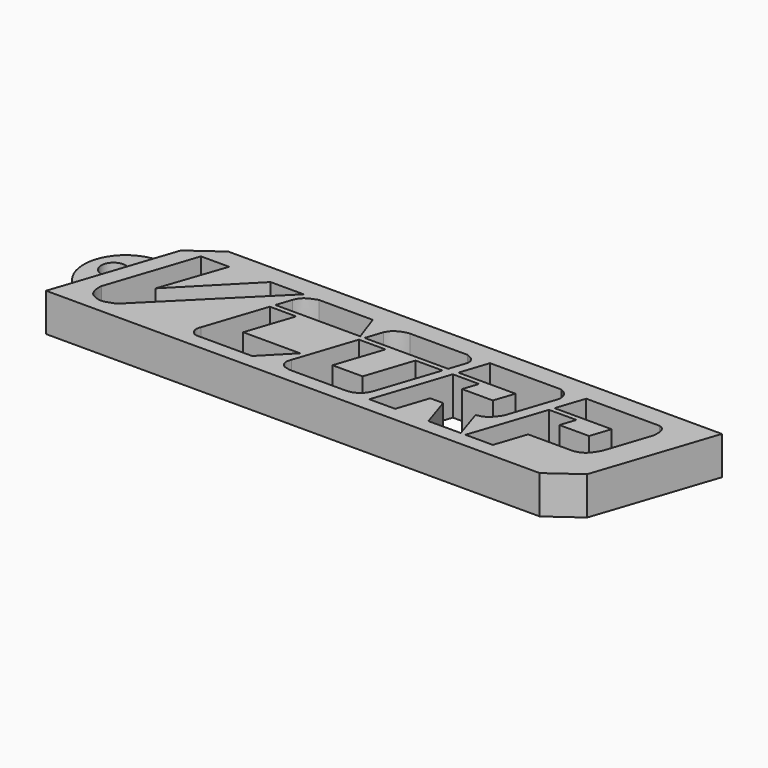
from build123d import *

# Parameters (mm, degrees)
F0_R     = 1.5875
F1_DEPTH = 3.5
F2_DEPTH = 5
F3_SIZE  = 3


with BuildPart() as f1:
    # F0 (on Top) → F1 (new body)
    with BuildSketch(Plane.XY):
        with BuildLine():
            Line((-31.4265900099, 5.0546218881), (-27.9518529079, 15.4913935188))
            ThreePointArc((-27.9518529079, 15.4913935188), (-34.9076072742, 12.0103762544), (-31.4265900099, 5.0546218881))
        make_face()
        with Locations((-32.070890069, 11.2492460757)):
            Circle(F0_R, mode=Mode.SUBTRACT)
    extrude(amount=F1_DEPTH)

    # F0 (on Top) → F2 (join)
    with BuildSketch(Plane.XY):
        Polygon((41.0324722573, 19.4832161069), (-26.6228467226, 19.4832161069), (-27.9518529079, 15.4913935188), (-31.4265900099, 5.0546218881), (-32.7555961951, 1.0627993), (34.8997227848, 1.0627993), align=None)
        with BuildLine():
            Line((-28.9777275175, 5.3988145664), (-25.1468084753, 16.9054195285))
            Line((-25.1468084753, 16.9054195285), (-21.4522741735, 16.9054195285))
            Line((-21.4522741735, 16.9054195285), (-24.3383795023, 8.4737306461))
            Line((-24.3383795023, 8.4737306461), (-16.0307120532, 16.9054195285))
            Line((-16.0307120532, 16.9054195285), (-11.6880685091, 16.9054195285))
            Line((-11.6880685091, 16.9054195285), (-24.5002172887, 4.1521633975))
            add(Edge.make_bspline(
                [(-28.9777275175, 5.3988145664), (-28.9920829502, 5.1753823662), (-29.0245338372, 4.6708365307), (-28.75422588, 3.5537688412), (-27.9998356891, 3.1048311498), (-27.0958013154, 2.7514319548), (-26.1181460942, 3.0356500809), (-24.9673965188, 3.4478523222), (-24.6669790891, 4.0076975842), (-24.5002172887, 4.1521633975)],
                knots=[0, 0, 0, 0, 0.1262969211, 0.2800240671, 0.4158511978, 0.5575129061, 0.7061749681, 0.8684200327, 1, 1, 1, 1], degree=3))
        make_face(mode=Mode.SUBTRACT)
        with BuildLine():
            Line((-15.3263181921, 4.6695175429), (-12.6858081932, 12.6005923375))
            Line((-12.6858081932, 12.6005923375), (-9.2335287482, 12.6005923375))
            Line((-9.2335287482, 12.6005923375), (-11.2720251255, 6.4777345397))
            Line((-11.2720251255, 6.4777345397), (-3.8119675592, 6.4777345397))
            Line((-3.8119675592, 6.4777345397), (-7.2645042092, 2.9442787636))
            Line((-7.2645042092, 2.9442787636), (-14.5471990108, 2.9442787636))
            add(Edge.make_bspline(
                [(-15.3263181921, 4.6695175429), (-15.412953449, 4.4685670415), (-15.5153766012, 4.0139535839), (-15.3713346976, 3.5123078219), (-14.9348493955, 3.0029722267), (-14.6664225121, 2.9634887966), (-14.5471990108, 2.9442787636)],
                knots=[0, 0, 0, 0, 0.2769740748, 0.5225718313, 0.7922113558, 1, 1, 1, 1], degree=3))
        make_face(mode=Mode.SUBTRACT)
        with BuildLine():
            Line((-3.6092272494, 4.7830686145), (-1.006522056, 12.6005923375))
            Line((-1.006522056, 12.6005923375), (2.4699948262, 12.6005923375))
            Line((2.4699948262, 12.6005923375), (0.4314984489, 6.4777345397))
            Line((0.4314984489, 6.4777345397), (4.3695482254, 6.4777345397))
            Line((4.3695482254, 6.4777345397), (6.4080446027, 12.6005923375))
            Line((6.4080446027, 12.6005923375), (9.944493111, 12.6005923375))
            Line((9.944493111, 12.6005923375), (7.295898505, 4.6452344979))
            add(Edge.make_bspline(
                [(5.019672215, 2.9442787636), (5.3202927104, 2.9720111906), (5.9371146467, 3.0289133965), (6.7725368253, 3.6540595509), (7.1265212599, 4.2095994242), (7.2429882815, 4.5091504028), (7.295898505, 4.6452344979)],
                knots=[0, 0, 0, 0, 0.2778020394, 0.5700023599, 0.8046548203, 1, 1, 1, 1], degree=3))
            Line((5.019672215, 2.9442787636), (-2.3504255805, 2.9442787636))
            add(Edge.make_bspline(
                [(-3.6092272494, 4.7830686145), (-3.67113197, 4.5634032575), (-3.8212267897, 4.1675860799), (-3.6641600553, 3.5384581919), (-3.2517359041, 3.1591508461), (-2.8747256329, 3.0686619256), (-2.516107329, 2.9705723243), (-2.3504255805, 2.9442787636)],
                knots=[0, 0, 0, 0, 0.2197721338, 0.4329089146, 0.6302776263, 0.8005723672, 1, 1, 1, 1], degree=3))
        make_face(mode=Mode.SUBTRACT)
        with BuildLine():
            Line((14.7266461202, 12.6005923375), (14.0710948035, 10.6315687299))
            Line((14.0710948035, 10.6315687299), (18.1098322433, 10.6315687299))
            Line((18.1098322433, 10.6315687299), (18.9809072763, 13.247942552))
            Line((18.9809072763, 13.247942552), (11.5047557417, 13.247942552))
            Line((11.5047557417, 13.247942552), (12.7224475145, 16.9054195285))
            Line((12.7224475145, 16.9054195285), (22.0626555383, 16.9054195285))
            add(Edge.make_bspline(
                [(22.0626555383, 16.9054195285), (22.3089069671, 16.7843506596), (22.805584496, 16.5401604557), (23.2208609454, 15.7363707454), (23.1947312081, 15.2980748511), (23.1826324016, 15.0951314718)],
                knots=[0, 0, 0, 0, 0.3455584276, 0.6969750663, 1, 1, 1, 1], degree=3))
            Line((23.1826324016, 15.0951314718), (21.0596756466, 8.7185872374))
            add(Edge.make_bspline(
                [(18.7374129891, 7.0171933621), (19.0743271, 7.0747176968), (19.7600226879, 7.191792587), (20.5652309975, 7.9899188639), (20.9008130115, 8.4844696711), (21.0596756466, 8.7185872374)],
                knots=[0, 0, 0, 0, 0.3371723256, 0.6862211127, 1, 1, 1, 1], degree=3))
            Line((18.7374129891, 7.0171933621), (20.0548148302, 2.9442787636))
            Line((20.0548148302, 2.9442787636), (15.8165477837, 2.9442787636))
            Line((15.8165477837, 2.9442787636), (14.5026613027, 7.0063251812))
            Line((14.5026613027, 7.0063251812), (12.8089402386, 7.0063251812))
            Line((12.8089402386, 7.0063251812), (11.4565542809, 2.9442787636))
            Line((11.4565542809, 2.9442787636), (8.0743345234, 2.9442787636))
            Line((8.0743345234, 2.9442787636), (11.2892320254, 12.6005923375))
            Line((11.2892320254, 12.6005923375), (14.7266461202, 12.6005923375))
        make_face(mode=Mode.SUBTRACT)
        with BuildLine():
            Line((24.1011208061, 13.247942552), (25.3188125789, 16.9054195285))
            Line((25.3188125789, 16.9054195285), (34.8942168057, 16.9054195285))
            add(Edge.make_bspline(
                [(34.8942168057, 16.9054195285), (35.0684423878, 16.859968893), (35.4295860068, 16.7569322968), (35.7995742049, 16.1220536503), (35.8151353066, 15.5397566812), (35.8225300681, 15.0414425386), (35.8146689832, 14.9303343571)],
                knots=[0, 0, 0, 0, 0.2357708493, 0.4999954373, 0.7565613025, 1, 1, 1, 1], degree=3))
            Line((35.8146689832, 14.9303343571), (33.8334400243, 8.9794858223))
            add(Edge.make_bspline(
                [(31.6074602306, 7.0171933621), (31.942303977, 7.1079293231), (32.6079055145, 7.2882940327), (33.3166309684, 8.0405557477), (33.6588514346, 8.6622961839), (33.8334400243, 8.9794858223)],
                knots=[0, 0, 0, 0, 0.3315003144, 0.658955472, 1, 1, 1, 1], degree=3))
            Line((31.6074602306, 7.0171933621), (25.618012828, 7.0171933621))
            Line((25.618012828, 7.0171933621), (24.2620085031, 2.9442787636))
            Line((24.2620085031, 2.9442787636), (20.6706995878, 2.9442787636))
            Line((20.6706995878, 2.9442787636), (23.8855970898, 12.6005923375))
            Line((23.8855970898, 12.6005923375), (27.4769060051, 12.6005923375))
            Line((27.4769060051, 12.6005923375), (26.8213546884, 10.6315687299))
            Line((26.8213546884, 10.6315687299), (30.7054615629, 10.6315687299))
            Line((30.7054615629, 10.6315687299), (31.5765365958, 13.247942552))
            Line((31.5765365958, 13.247942552), (24.1011208061, 13.247942552))
        make_face(mode=Mode.SUBTRACT)
        with BuildLine():
            Line((-1.3555428013, 13.247942552), (-12.4702844769, 13.247942552))
            Line((-12.4702844769, 13.247942552), (-11.8047845561, 15.2468479336))
            add(Edge.make_bspline(
                [(-11.8047845561, 15.2468479336), (-11.6767305289, 15.5330426408), (-11.4188633608, 16.1093635911), (-10.5631227863, 16.6057970327), (-9.9809284289, 16.8059060028), (-9.6914051101, 16.9054195285)],
                knots=[0, 0, 0, 0, 0.3315021528, 0.6675582426, 1, 1, 1, 1], degree=3))
            Line((-9.6914051101, 16.9054195285), (-2.6385991368, 16.9054195285))
            Line((-2.6385991368, 16.9054195285), (-1.3555428013, 13.247942552))
        make_face(mode=Mode.SUBTRACT)
        with BuildLine():
            Line((10.8109767279, 15.2031753147), (10.1600168273, 13.247942552))
            Line((10.1600168273, 13.247942552), (-0.7909983397, 13.247942552))
            Line((-0.7909983397, 13.247942552), (-0.0682607797, 15.4187677514))
            add(Edge.make_bspline(
                [(-0.0682607797, 15.4187677514), (0.026154863, 15.6063153162), (0.2211252684, 15.9936052156), (0.7879268458, 16.4535320876), (1.5037634571, 16.7975556024), (1.9972902544, 16.8698487126), (2.2401232272, 16.9054195285)],
                knots=[0, 0, 0, 0, 0.2344122175, 0.484066451, 0.7461420976, 1, 1, 1, 1], degree=3))
            Line((2.2401232272, 16.9054195285), (9.7473124042, 16.9054195285))
            add(Edge.make_bspline(
                [(9.7473124042, 16.9054195285), (9.9647353691, 16.8279462307), (10.4021050332, 16.6721003647), (10.9269689865, 16.122615239), (10.9059285861, 15.5220470488), (10.8396165057, 15.2993547447), (10.8109767279, 15.2031753147)],
                knots=[0, 0, 0, 0, 0.2783973846, 0.5600262634, 0.8099780622, 1, 1, 1, 1], degree=3))
        make_face(mode=Mode.SUBTRACT)
    extrude(amount=F2_DEPTH)

    # F3
    f3_edges = [f1.edges().sort_by_distance(p)[0] for p in [
        (-26.622847, 19.483216, 2.5),
        (34.899723, 1.062799, 2.5),
    ]]
    chamfer(f3_edges, length=F3_SIZE)


solid = f1.part
